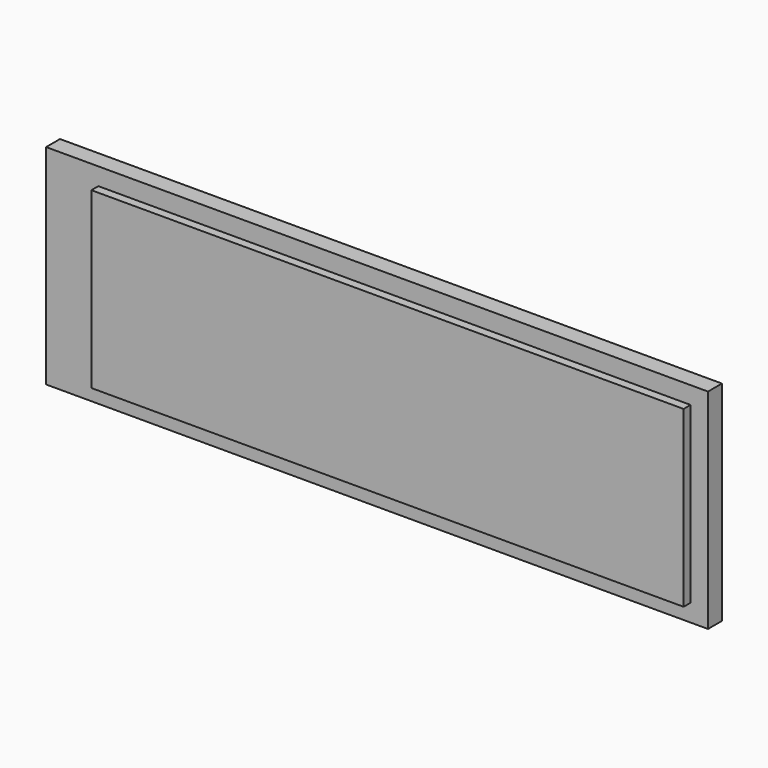
from build123d import *

# Parameters (mm, degrees)
BOX_W        = 38
BOX_H        = 1
BOX_DEPTH    = 12
BOX001_W     = 34
BOX001_H     = 1
BOX001_DEPTH = 10


with BuildPart() as cubo:
    # Box → Box (new body)
    with BuildSketch(Plane.XY):
        with Locations((19, 0.5)):
            Rectangle(BOX_W, BOX_H)
    extrude(amount=BOX_DEPTH)


with BuildPart() as display:
    # Box001 → Box001 (new body)
    with BuildSketch(Plane(origin=(3, -0.5, 1), x_dir=(1, 0, 0), z_dir=(0, 0, 1))):
        with Locations((17, 0.5)):
            Rectangle(BOX001_W, BOX001_H)
    extrude(amount=BOX001_DEPTH)

    # Fusion: union Cubo
    add(cubo.part)


solid = display.part
